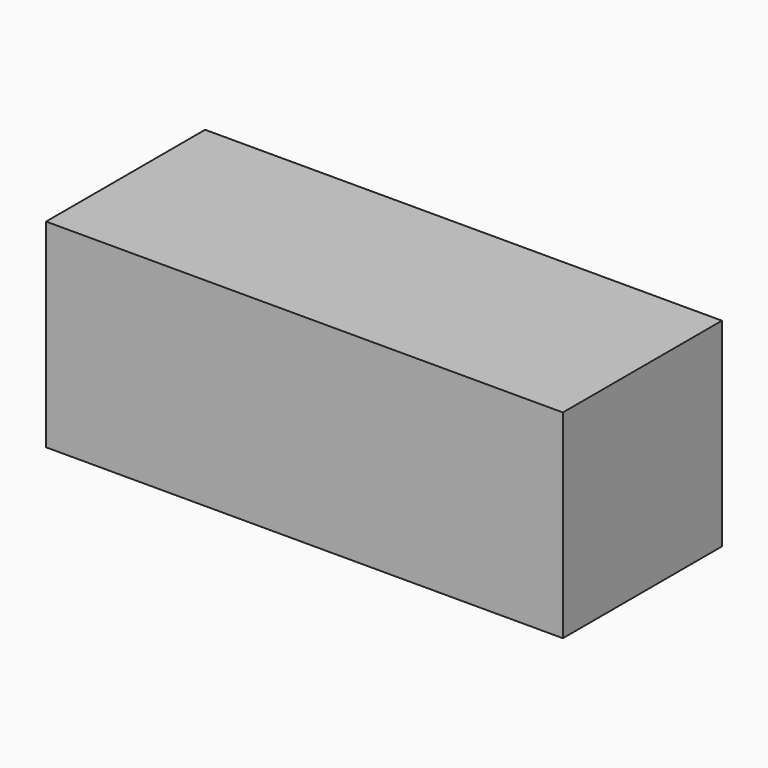
from build123d import *

# Parameters (mm, degrees)
SKETCH_W      = 130
SKETCH_H      = 50
EXTRUDE_DEPTH = 50


with BuildPart() as part:
    # Sketch → Extrude (new body)
    with BuildSketch(Plane.XY):
        Rectangle(SKETCH_W, SKETCH_H)
    extrude(amount=EXTRUDE_DEPTH)


solid = part.part
